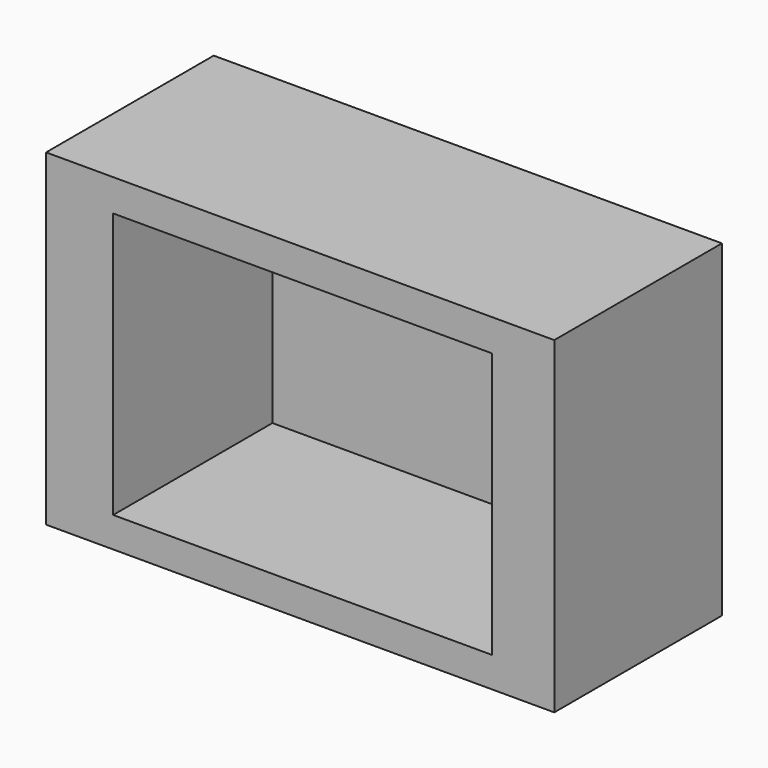
from build123d import *

# Parameters (mm, degrees)
F0_W     = 123.19462
F0_H     = 79.45159
F0_W_2   = 91.824203
F0_H_2   = 64.353783
F1_DEPTH = 50.8
F2_DEPTH = 2.54


with BuildPart() as f1:
    # F0 (on Front) → F1 (new body)
    with BuildSketch(Plane.XZ):
        Rectangle(F0_W, F0_H)
        with Locations((0.576303, -0.192101)):
            Rectangle(F0_W_2, F0_H_2, mode=Mode.SUBTRACT)
    extrude(amount=F1_DEPTH)

    # F0 (on Front) → F2 (join)
    with BuildSketch(Plane.XZ):
        with Locations((0.576303, -0.192101)):
            Rectangle(F0_W_2, F0_H_2)
    extrude(amount=F2_DEPTH)


solid = f1.part
